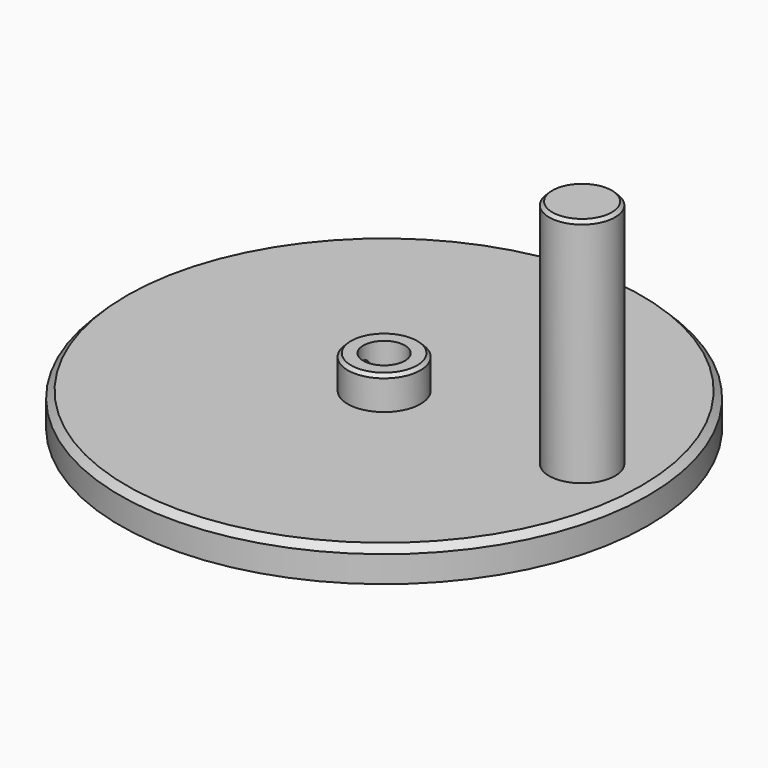
from build123d import *

# Parameters (mm, degrees)
F0_R     = 50.8
F0_R_2   = 7
F0_R_3   = 6.35
F1_DEPTH = 6.35
F2_DEPTH = 50.8
F0_R_4   = 4
F3_DEPTH = 12.7
F4_SIZE  = 0.635
F5_R     = 1.25
F6_DEPTH = 25.4
F7_SIZE  = 1.27


with BuildPart() as f1:
    # F0 (on Top) → F1 (new body)
    with BuildSketch(Plane.XY):
        Circle(F0_R)
        Circle(F0_R_2, mode=Mode.SUBTRACT)
        with Locations((38.1, 0)):
            Circle(F0_R_3, mode=Mode.SUBTRACT)
    extrude(amount=F1_DEPTH)

    # F0 (on Top) → F2 (join)
    with BuildSketch(Plane.XY):
        with Locations((38.1, 0)):
            Circle(F0_R_3)
    extrude(amount=F2_DEPTH)

    # F0 (on Top) → F3 (join)
    with BuildSketch(Plane.XY):
        Circle(F0_R_2)
        Circle(F0_R_4, mode=Mode.SUBTRACT)
    extrude(amount=F3_DEPTH)

    # F4
    f4_edges = [f1.edges().sort_by_distance(p)[0] for p in [
        (31.75, 0, 50.8),
        (-7, 0, 12.7),
    ]]
    chamfer(f4_edges, length=F4_SIZE)

    # F5 (on Right) → F6 (cut)
    with BuildSketch(Plane.YZ):
        with Locations((0, 8.89)):
            Circle(F5_R)
    extrude(amount=-F6_DEPTH, mode=Mode.SUBTRACT)

    # F7
    f7_edges = [f1.edges().sort_by_distance(p)[0] for p in [
        (-50.8, 0, 6.35),
    ]]
    chamfer(f7_edges, length=F7_SIZE)


solid = f1.part
